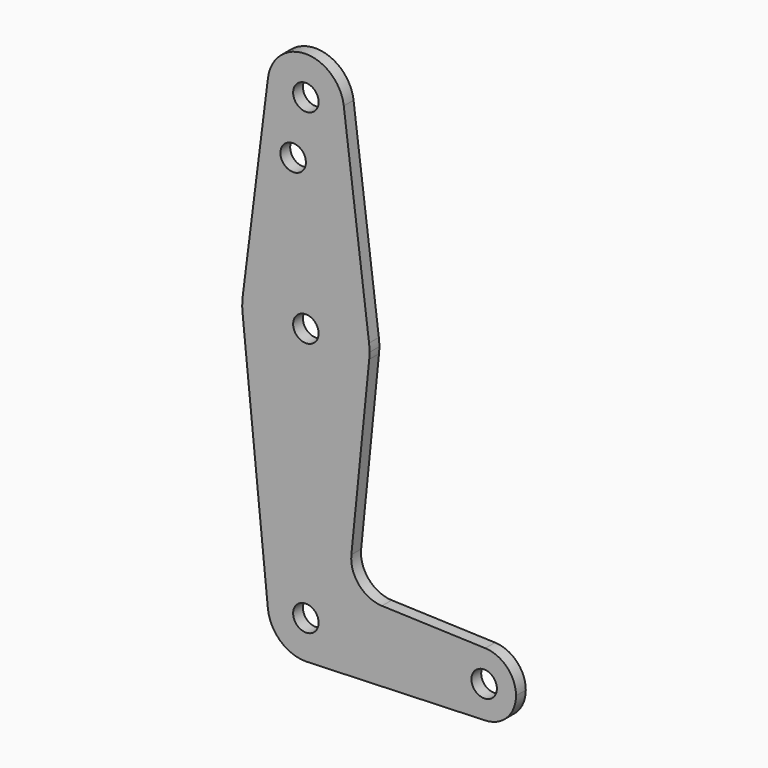
from build123d import *

# Parameters (mm, degrees)
F0_R     = 3.175
F1_DEPTH = 3.048


with BuildPart() as f1:
    # F0 (on Front) → F1 (new body)
    with BuildSketch(Plane.XZ):
        with BuildLine():
            ThreePointArc((-9.450293, 115.490625), (-0.596483, 104.793695), (9.525, 114.3))
            ThreePointArc((9.525, 114.3), (9.506305, 114.896483), (9.450293, 115.490625))
            ThreePointArc((9.450293, 115.490625), (0, 123.825), (-9.450293, 115.490625))
        make_face()
        with Locations((0, 114.3)):
            Circle(F0_R, mode=Mode.SUBTRACT)
        with BuildLine():
            ThreePointArc((9.450293, 115.490625), (9.506305, 114.896483), (9.525, 114.3))
            ThreePointArc((9.525, 114.3), (-0.596483, 104.793695), (-9.450293, 115.490625))
            Line((-9.450293, 115.490625), (-15.750488, 65.484375))
            ThreePointArc((-15.750488, 65.484375), (0, 79.375), (15.750488, 65.484375))
            Line((15.750488, 65.484375), (9.450293, 115.490625))
        make_face()
        with Locations((-3.175, 100.0252)):
            Circle(F0_R, mode=Mode.SUBTRACT)
        with BuildLine():
            ThreePointArc((15.875, 63.5), (15.843841, 64.494139), (15.750488, 65.484375))
            ThreePointArc((15.750488, 65.484375), (0, 79.375), (-15.750488, 65.484375))
            ThreePointArc((-15.750488, 65.484375), (-15.873744, 63.699705), (-15.795426, 61.9125))
            ThreePointArc((-15.795426, 61.9125), (0, 47.625), (15.795426, 61.9125))
            ThreePointArc((15.795426, 61.9125), (15.855094, 62.705253), (15.875, 63.5))
        make_face()
        with Locations((0, 63.5)):
            Circle(F0_R, mode=Mode.SUBTRACT)
        with BuildLine():
            ThreePointArc((15.795426, 61.9125), (0, 47.625), (-15.795426, 61.9125))
            Line((-15.795426, 61.9125), (-9.477255, -0.9525))
            ThreePointArc((-9.477255, -0.9525), (-0.476848, 9.513056), (9.525, 0))
            ThreePointArc((9.525, 0), (6.970557, -6.491299), (0.677344, -9.500886))
            Line((0.677344, -9.500886), (44.732405, -7.932475))
            ThreePointArc((44.732405, -7.932475), (36.5125, 0), (44.732405, 7.932475))
            Line((44.732405, 7.932475), (18.968328, 8.849706))
            ThreePointArc((18.968328, 8.849706), (13.261204, 11.567463), (11.340836, 17.589892))
            Line((11.340836, 17.589892), (15.795426, 61.9125))
        make_face()
        with BuildLine():
            ThreePointArc((9.525, 0), (-0.476848, 9.513056), (-9.477255, -0.9525))
            ThreePointArc((-9.477255, -0.9525), (-6.389564, -7.063929), (0, -9.525))
            Line((0, -9.525), (0.677344, -9.500886))
            ThreePointArc((0.677344, -9.500886), (6.970557, -6.491299), (9.525, 0))
        make_face()
        Circle(F0_R, mode=Mode.SUBTRACT)
        with BuildLine():
            ThreePointArc((52.3875, 0), (50.161633, 5.51191), (44.732405, 7.932475))
            ThreePointArc((44.732405, 7.932475), (36.5125, 0), (44.732405, -7.932475))
            ThreePointArc((44.732405, -7.932475), (50.161633, -5.51191), (52.3875, 0))
        make_face()
        with Locations((44.45, 0)):
            Circle(F0_R, mode=Mode.SUBTRACT)
    extrude(amount=F1_DEPTH)


solid = f1.part
